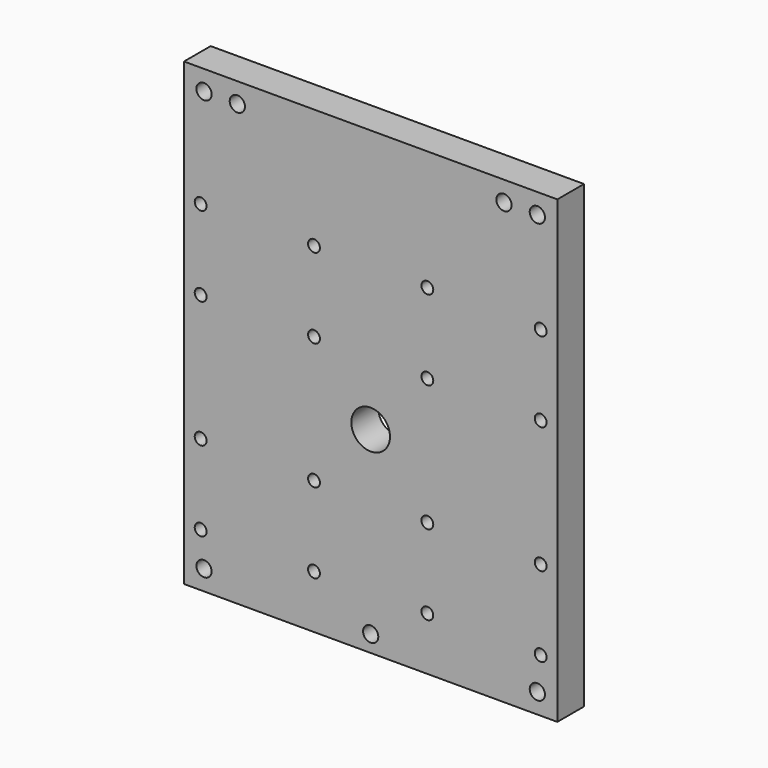
from build123d import *

# Parameters (mm, degrees)
F1_W     = 56
F1_H     = 69
F4_DEPTH = 5
F2_W     = 8
F2_H     = 20
F5_DEPTH = 4
F3_R     = 0.889
F3_R_2   = 1.143
F3_R_3   = 2.9
F6_DEPTH = 5.001


with BuildPart() as f4:
    # F1 (on Front) → F4 (new body)
    with BuildSketch(Plane.XZ):
        with Locations((-0.375, 2)):
            Rectangle(F1_W, F1_H)
    extrude(amount=F4_DEPTH)

    # F2 (on Front) → F5 (cut)
    with BuildSketch(Plane.XZ):
        Polygon((-20.875, 12.5), (-20.875, 2.5), (-12.875, 2.5), (-12.875, 22.5), (-20.875, 22.5), align=None)
        with Locations((-16.875, -18.5)):
            Rectangle(F2_W, F2_H)
        Polygon((20.125, 12.5), (20.125, 22.5), (12.125, 22.5), (12.125, 2.5), (20.125, 2.5), align=None)
        with Locations((16.125, -18.5)):
            Rectangle(F2_W, F2_H)
    extrude(amount=F5_DEPTH, mode=Mode.SUBTRACT)

    # F3 (on Front) → F6 (cut, through all)
    with BuildSketch(Plane.XZ):
        with Locations((-25.875, 18.5)):
            Circle(F3_R)
        with Locations((-25.875, 6.5)):
            Circle(F3_R)
        with Locations((-8.875, 18.5)):
            Circle(F3_R)
        with Locations((-8.875, 6.5)):
            Circle(F3_R)
        with Locations((-8.875, -12.5)):
            Circle(F3_R)
        with Locations((-25.875, -12.5)):
            Circle(F3_R)
        with Locations((-25.875, -24.5)):
            Circle(F3_R)
        with Locations((-8.875, -24.5)):
            Circle(F3_R)
        with Locations((-0.375, -30)):
            Circle(F3_R_2)
        with Locations((-25.375, -29.5)):
            Circle(F3_R_2)
        with Locations((-0.375, -3)):
            Circle(F3_R_3)
        with Locations((-25.375, 33.5)):
            Circle(F3_R_2)
        with Locations((8.125, 18.5)):
            Circle(F3_R)
        with Locations((8.125, 6.5)):
            Circle(F3_R)
        with Locations((25.125, 18.5)):
            Circle(F3_R)
        with Locations((24.625, 33.5)):
            Circle(F3_R_2)
        with Locations((8.125, -12.5)):
            Circle(F3_R)
        with Locations((8.125, -24.5)):
            Circle(F3_R)
        with Locations((25.125, -12.5)):
            Circle(F3_R)
        with Locations((25.125, -24.5)):
            Circle(F3_R)
        with Locations((24.625, -29.5)):
            Circle(F3_R_2)
        with Locations((25.125, 6.5)):
            Circle(F3_R)
        with Locations((-20.375, 33.5)):
            Circle(F3_R_2)
        with Locations((19.625, 33.5)):
            Circle(F3_R_2)
    extrude(amount=F6_DEPTH, mode=Mode.SUBTRACT)


solid = f4.part
